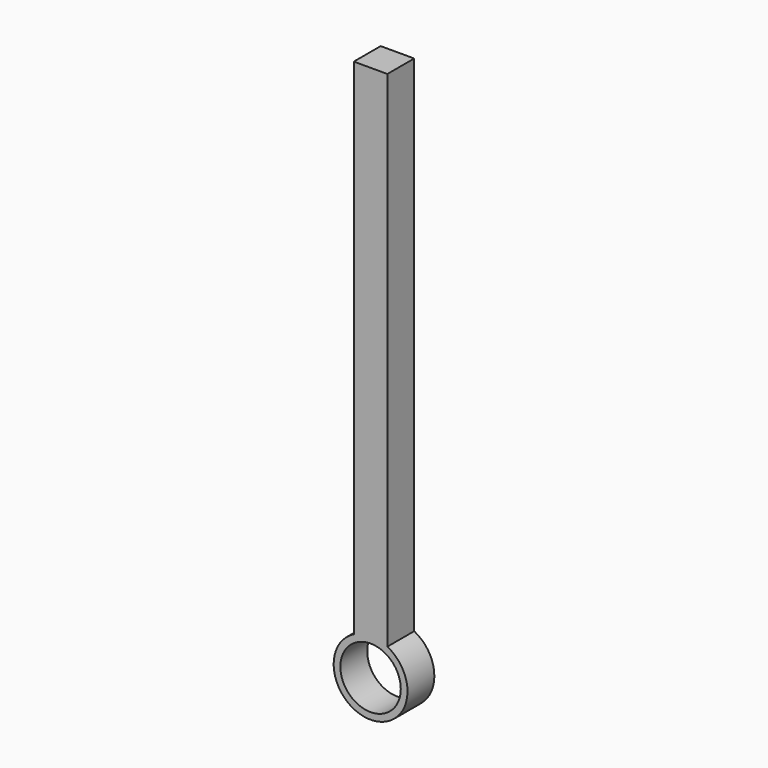
from build123d import *

# Parameters (mm, degrees)
F0_R          = 13.97
F0_R_2        = 11.43
F1_DEPTH      = 12.7
F2_W          = 12.7
F2_H          = 203.2
F3_DEPTH      = 6.35
F3_DEPTH_BACK = 6.35
F4_DEPTH      = 25.4
F6_START      = -3.81
F6_DEPTH      = 10.54779


with BuildPart() as f1:
    # F0 (on Front) → F1 (new body)
    with BuildSketch(Plane.XZ):
        Circle(F0_R)
        Circle(F0_R_2, mode=Mode.SUBTRACT)
    extrude(amount=F1_DEPTH)

    # F2 (on Right) → F3 (join, two sides)
    with BuildSketch(Plane.YZ) as f3_sk:
        with Locations((-6.35, 101.6)):
            Rectangle(F2_W, F2_H)
    extrude(amount=F3_DEPTH)
    extrude(f3_sk.sketch, amount=-F3_DEPTH_BACK)

    # F0 (on Front) → F4 (cut)
    with BuildSketch(Plane.XZ):
        Circle(F0_R_2)
    extrude(amount=F4_DEPTH, mode=Mode.SUBTRACT)

    # F5 (on face) → F6 (cut)
    with BuildSketch(Plane.YZ.offset(6.35).offset(F6_START)):
        with BuildLine():
            ThreePointArc((-3.175, 196.85), (-4.1049359697, 199.0950640303), (-6.35, 200.025))
            ThreePointArc((-6.35, 200.025), (-8.5950640303, 194.6049359697), (-3.175, 196.85))
        make_face()
    extrude(amount=-F6_DEPTH, mode=Mode.SUBTRACT)


solid = f1.part
